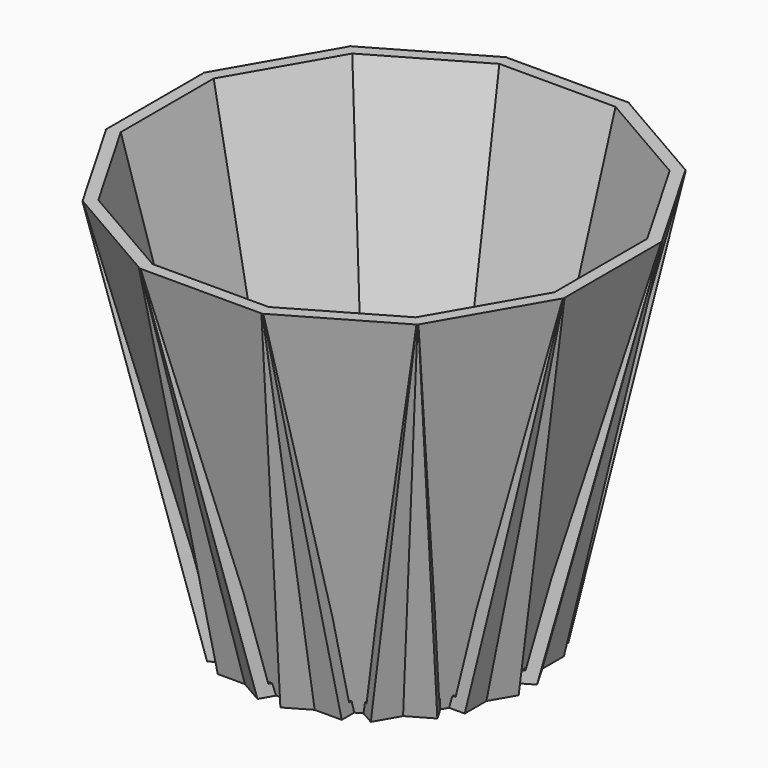
from build123d import *

# Parameters (mm, degrees)
F1_DEPTH      = 4
F1_DEPTH_BACK = 4
F2_COUNT      = 12


with BuildPart() as f1:
    # F0 (on Front) → F1 (new body, two sides)
    with BuildSketch(Plane.XZ) as f1_sk:
        Polygon((0, 0.75), (0, 0), (8.40777345, 0), (14.7618511692, 25.6429929286), (13.9891691904, 25.6429929286), (7.8209339859, 0.75), (7.5633733264, 0.75), (7.3573247987, 0.75), align=None)
    extrude(amount=F1_DEPTH)
    extrude(f1_sk.sketch, amount=-F1_DEPTH_BACK)

    # F2: F1 ×12 about axis
    f2_axis = Axis((0, 0, 1.0500000276), (0, 0, -1))


with BuildPart() as f1_1:
    add(f1.part)
    for i in range(1, F2_COUNT):
        add(f1.part.rotate(f2_axis, i * 360 / F2_COUNT))


solid = f1_1.part
